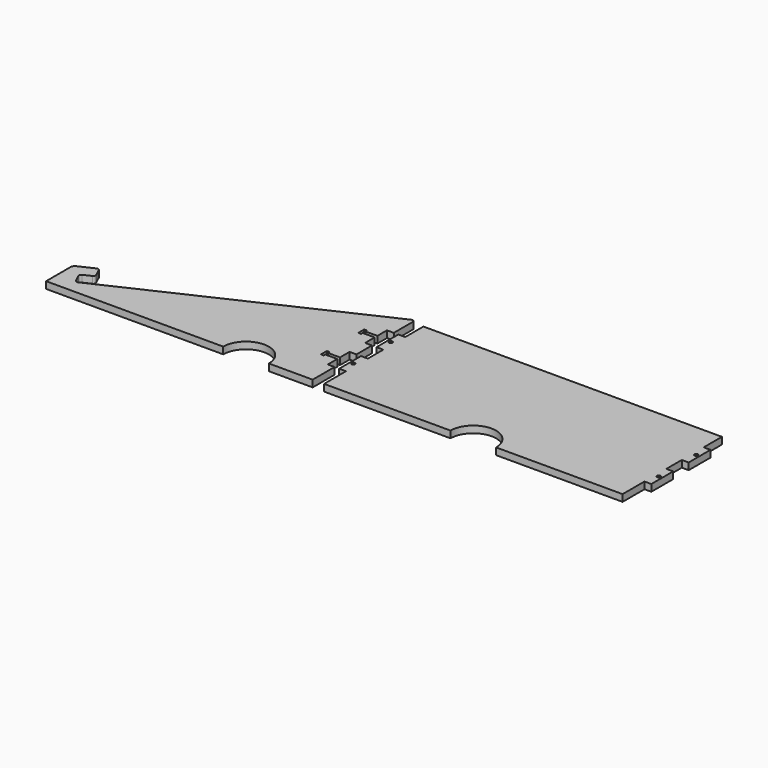
from build123d import *

# Parameters (mm, degrees)
F2_DEPTH = 6
F1_R     = 1.5


with BuildPart() as f2:
    # F1 (on Top) → F2 (new body)
    with BuildSketch(Plane.XY):
        with BuildLine():
            Line((13.3126155741, 22.7677760744), (20.1099239768, 25.9374130375))
            ThreePointArc((20.1099239768, 25.9374130375), (21.1440726949, 27.0659883249), (21.0773030274, 28.595265135))
            Line((21.0773030274, 28.595265135), (17.9076660644, 35.3925735378))
            ThreePointArc((17.9076660644, 35.3925735378), (16.779090777, 36.4267222559), (15.2498139668, 36.3599525884))
            Line((15.2498139668, 36.3599525884), (2.309526953, 30.3257976551))
            ThreePointArc((2.309526953, 30.3257976551), (0.6264342167, 28.8497649404), (0, 26.700566507))
            Line((0, 26.700566507), (0, 0))
            Line((0, 0), (155.5, 0))
            ThreePointArc((155.5, 0), (175.5, 20), (195.5, 0))
            Line((195.5, 0), (234, 0))
            Line((234, 0), (234, 24))
            Line((234, 24), (228, 24))
            Line((228, 24), (228, 34.5))
            Line((228, 34.5), (217.5, 34.5))
            Line((217.5, 34.5), (217.5, 32.75))
            Line((217.5, 32.75), (215, 32.75))
            Line((215, 32.75), (215, 36))
            Line((215, 36), (215, 39.25))
            Line((215, 39.25), (217.5, 39.25))
            Line((217.5, 39.25), (217.5, 37.5))
            Line((217.5, 37.5), (228, 37.5))
            Line((228, 37.5), (228, 48))
            Line((228, 48), (234, 48))
            Line((234, 48), (234, 64.9871474223))
            Line((234, 64.9871474223), (228, 64.9871474223))
            Line((228, 64.9871474223), (228, 75.4871474223))
            Line((228, 75.4871474223), (217.5, 75.4871474223))
            Line((217.5, 75.4871474223), (217.5, 73.7371474223))
            Line((217.5, 73.7371474223), (215, 73.7371474223))
            Line((215, 73.7371474223), (215, 76.9871474223))
            Line((215, 76.9871474223), (215, 80.2371474223))
            Line((215, 80.2371474223), (217.5, 80.2371474223))
            Line((217.5, 80.2371474223), (217.5, 78.4871474223))
            Line((217.5, 78.4871474223), (228, 78.4871474223))
            Line((228, 78.4871474223), (228, 88.9871474223))
            Line((228, 88.9871474223), (234, 88.9871474223))
            Line((234, 88.9871474223), (234, 109.8477762681))
            ThreePointArc((234, 109.8477762681), (233.0745992167, 111.5345591597), (231.1547634765, 111.6603918422))
            Line((231.1547634765, 111.6603918422), (18.1727255841, 12.3452365235))
            ThreePointArc((18.1727255841, 12.3452365235), (16.643448774, 12.278466856), (15.5148734865, 13.3126155741))
            Line((15.5148734865, 13.3126155741), (12.3452365235, 20.1099239768))
            ThreePointArc((12.3452365235, 20.1099239768), (12.278466856, 21.639200787), (13.3126155741, 22.7677760744))
        make_face()
    extrude(amount=F2_DEPTH)


with BuildPart() as f2b:
    # F1 (on Top) → F2, piece 2 (new body)
    with BuildSketch(Plane.XY):
        with BuildLine():
            Line((506, 108.9871474223), (244, 108.9871474223))
            Line((244, 108.9871474223), (244, 88.9871474223))
            Line((244, 88.9871474223), (238, 88.9871474223))
            Line((238, 88.9871474223), (238, 64.9871474223))
            Line((238, 64.9871474223), (244, 64.9871474223))
            Line((244, 64.9871474223), (244, 48))
            Line((244, 48), (238, 48))
            Line((238, 48), (238, 24))
            Line((238, 24), (244, 24))
            Line((244, 24), (244, 0))
            Line((244, 0), (355, 0))
            ThreePointArc((355, 0), (375, 20), (395, 0))
            Line((395, 0), (506, 0))
            Line((506, 0), (506, 24))
            Line((506, 24), (512, 24))
            Line((512, 24), (512, 48))
            Line((512, 48), (506, 48))
            Line((506, 48), (506, 64.9871474223))
            Line((506, 64.9871474223), (512, 64.9871474223))
            Line((512, 64.9871474223), (512, 88.9871474223))
            Line((512, 88.9871474223), (506, 88.9871474223))
            Line((506, 88.9871474223), (506, 108.9871474223))
        make_face()
        with Locations((241, 36)):
            Circle(F1_R, mode=Mode.SUBTRACT)
        with Locations((509, 36)):
            Circle(F1_R, mode=Mode.SUBTRACT)
        with Locations((241, 76.9871474223)):
            Circle(F1_R, mode=Mode.SUBTRACT)
        with Locations((509, 76.9871474223)):
            Circle(F1_R, mode=Mode.SUBTRACT)
        with BuildLine():
            Line((506, 108.9871474223), (244, 108.9871474223))
            Line((244, 108.9871474223), (244, 88.9871474223))
            Line((244, 88.9871474223), (238, 88.9871474223))
            Line((238, 88.9871474223), (238, 64.9871474223))
            Line((238, 64.9871474223), (244, 64.9871474223))
            Line((244, 64.9871474223), (244, 48))
            Line((244, 48), (238, 48))
            Line((238, 48), (238, 24))
            Line((238, 24), (244, 24))
            Line((244, 24), (244, 0))
            Line((244, 0), (355, 0))
            ThreePointArc((355, 0), (375, 20), (395, 0))
            Line((395, 0), (506, 0))
            Line((506, 0), (506, 24))
            Line((506, 24), (512, 24))
            Line((512, 24), (512, 48))
            Line((512, 48), (506, 48))
            Line((506, 48), (506, 64.9871474223))
            Line((506, 64.9871474223), (512, 64.9871474223))
            Line((512, 64.9871474223), (512, 88.9871474223))
            Line((512, 88.9871474223), (506, 88.9871474223))
            Line((506, 88.9871474223), (506, 108.9871474223))
        make_face()
        with Locations((241, 36)):
            Circle(F1_R, mode=Mode.SUBTRACT)
        with Locations((509, 36)):
            Circle(F1_R, mode=Mode.SUBTRACT)
        with Locations((241, 76.9871474223)):
            Circle(F1_R, mode=Mode.SUBTRACT)
        with Locations((509, 76.9871474223)):
            Circle(F1_R, mode=Mode.SUBTRACT)
        with BuildLine():
            Line((506, 108.9871474223), (244, 108.9871474223))
            Line((244, 108.9871474223), (244, 88.9871474223))
            Line((244, 88.9871474223), (238, 88.9871474223))
            Line((238, 88.9871474223), (238, 64.9871474223))
            Line((238, 64.9871474223), (244, 64.9871474223))
            Line((244, 64.9871474223), (244, 48))
            Line((244, 48), (238, 48))
            Line((238, 48), (238, 24))
            Line((238, 24), (244, 24))
            Line((244, 24), (244, 0))
            Line((244, 0), (355, 0))
            ThreePointArc((355, 0), (375, 20), (395, 0))
            Line((395, 0), (506, 0))
            Line((506, 0), (506, 24))
            Line((506, 24), (512, 24))
            Line((512, 24), (512, 48))
            Line((512, 48), (506, 48))
            Line((506, 48), (506, 64.9871474223))
            Line((506, 64.9871474223), (512, 64.9871474223))
            Line((512, 64.9871474223), (512, 88.9871474223))
            Line((512, 88.9871474223), (506, 88.9871474223))
            Line((506, 88.9871474223), (506, 108.9871474223))
        make_face()
        with Locations((241, 36)):
            Circle(F1_R, mode=Mode.SUBTRACT)
        with Locations((509, 36)):
            Circle(F1_R, mode=Mode.SUBTRACT)
        with Locations((241, 76.9871474223)):
            Circle(F1_R, mode=Mode.SUBTRACT)
        with Locations((509, 76.9871474223)):
            Circle(F1_R, mode=Mode.SUBTRACT)
        with BuildLine():
            Line((506, 108.9871474223), (244, 108.9871474223))
            Line((244, 108.9871474223), (244, 88.9871474223))
            Line((244, 88.9871474223), (238, 88.9871474223))
            Line((238, 88.9871474223), (238, 64.9871474223))
            Line((238, 64.9871474223), (244, 64.9871474223))
            Line((244, 64.9871474223), (244, 48))
            Line((244, 48), (238, 48))
            Line((238, 48), (238, 24))
            Line((238, 24), (244, 24))
            Line((244, 24), (244, 0))
            Line((244, 0), (355, 0))
            ThreePointArc((355, 0), (375, 20), (395, 0))
            Line((395, 0), (506, 0))
            Line((506, 0), (506, 24))
            Line((506, 24), (512, 24))
            Line((512, 24), (512, 48))
            Line((512, 48), (506, 48))
            Line((506, 48), (506, 64.9871474223))
            Line((506, 64.9871474223), (512, 64.9871474223))
            Line((512, 64.9871474223), (512, 88.9871474223))
            Line((512, 88.9871474223), (506, 88.9871474223))
            Line((506, 88.9871474223), (506, 108.9871474223))
        make_face()
        with Locations((241, 36)):
            Circle(F1_R, mode=Mode.SUBTRACT)
        with Locations((509, 36)):
            Circle(F1_R, mode=Mode.SUBTRACT)
        with Locations((241, 76.9871474223)):
            Circle(F1_R, mode=Mode.SUBTRACT)
        with Locations((509, 76.9871474223)):
            Circle(F1_R, mode=Mode.SUBTRACT)
        with BuildLine():
            Line((506, 108.9871474223), (244, 108.9871474223))
            Line((244, 108.9871474223), (244, 88.9871474223))
            Line((244, 88.9871474223), (238, 88.9871474223))
            Line((238, 88.9871474223), (238, 64.9871474223))
            Line((238, 64.9871474223), (244, 64.9871474223))
            Line((244, 64.9871474223), (244, 48))
            Line((244, 48), (238, 48))
            Line((238, 48), (238, 24))
            Line((238, 24), (244, 24))
            Line((244, 24), (244, 0))
            Line((244, 0), (355, 0))
            ThreePointArc((355, 0), (375, 20), (395, 0))
            Line((395, 0), (506, 0))
            Line((506, 0), (506, 24))
            Line((506, 24), (512, 24))
            Line((512, 24), (512, 48))
            Line((512, 48), (506, 48))
            Line((506, 48), (506, 64.9871474223))
            Line((506, 64.9871474223), (512, 64.9871474223))
            Line((512, 64.9871474223), (512, 88.9871474223))
            Line((512, 88.9871474223), (506, 88.9871474223))
            Line((506, 88.9871474223), (506, 108.9871474223))
        make_face()
        with Locations((241, 36)):
            Circle(F1_R, mode=Mode.SUBTRACT)
        with Locations((509, 36)):
            Circle(F1_R, mode=Mode.SUBTRACT)
        with Locations((241, 76.9871474223)):
            Circle(F1_R, mode=Mode.SUBTRACT)
        with Locations((509, 76.9871474223)):
            Circle(F1_R, mode=Mode.SUBTRACT)
    extrude(amount=F2_DEPTH)


solid = Compound([f2.part, f2b.part])
